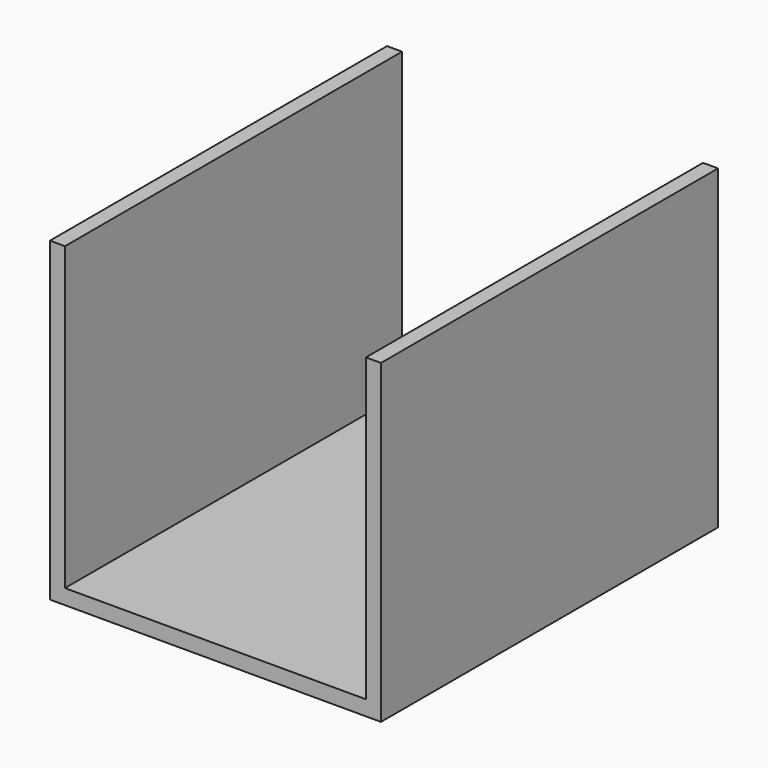
from build123d import *

# Parameters (mm, degrees)
F1_DEPTH = 70


with BuildPart() as f1:
    # F0 (on Front) → F1 (new body)
    with BuildSketch(Plane.XZ):
        Polygon((-3.7e-05, 52.499998), (0, 0), (55, 0), (54.999963, 52.500002), (52.499961, 52.5), (52.5, 2.5), (2.5, 2.5), (2.499961, 52.5), align=None)
    extrude(amount=F1_DEPTH)


solid = f1.part
